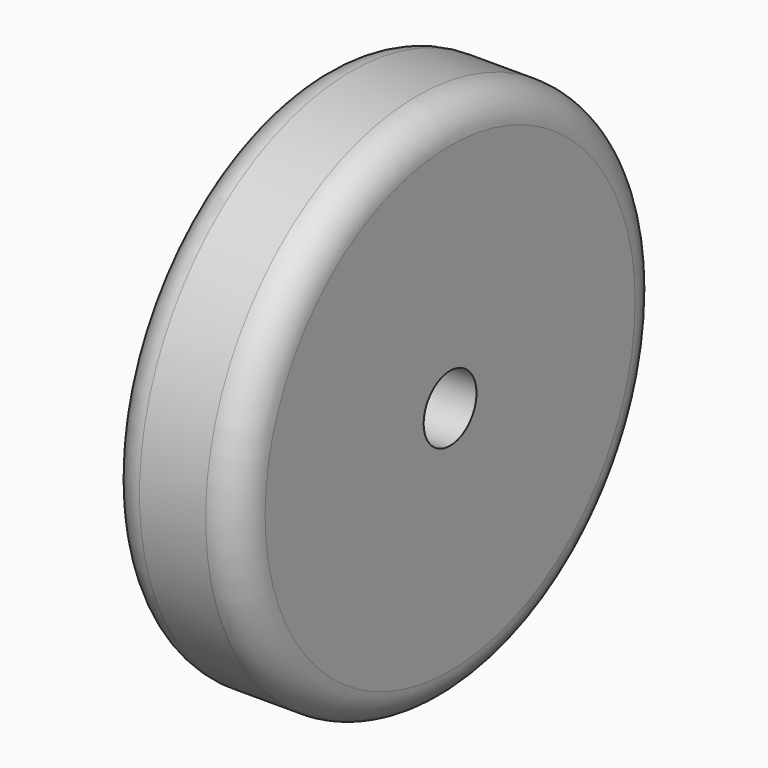
from build123d import *

# Parameters (mm, degrees)
F0_R     = 101.6
F1_DEPTH = 25.4
F2_R     = 12.7
F3_R     = 12.7
F4_DEPTH = 50.801


with BuildPart() as f1:
    # F0 (on Right) → F1 (new body, symmetric)
    with BuildSketch(Plane.YZ):
        Circle(F0_R)
    extrude(amount=F1_DEPTH, both=True)

    # F2
    f2_edges = [f1.edges().sort_by_distance(p)[0] for p in [
        (-25.4, -101.6, 0),
        (25.4, -101.6, 0),
    ]]
    fillet(f2_edges, radius=F2_R)

    # F3 (on face) → F4 (cut, through all)
    with BuildSketch(Plane(origin=(-25.4, 0, 0), x_dir=(0, -1, 0), z_dir=(-1, 0, 0))):
        Circle(F3_R)
    extrude(amount=-F4_DEPTH, mode=Mode.SUBTRACT)


solid = f1.part
